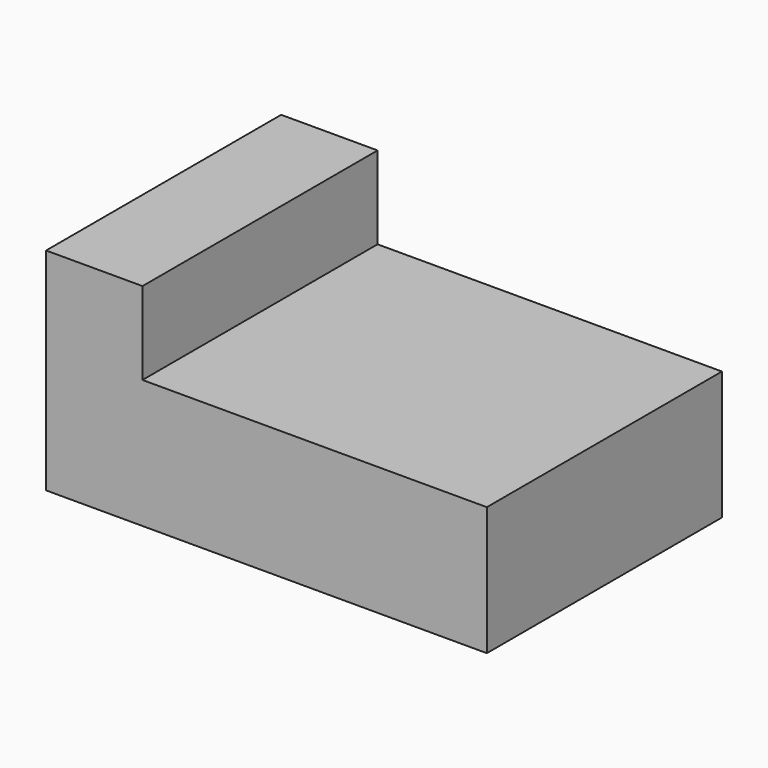
from build123d import *

# Parameters (mm, degrees)
F1_DEPTH = 25.4
F2_DEPTH = 25.4
F3_DEPTH = 50.8


with BuildPart() as f1:
    # F0 (on Front) → F1 (new body)
    with BuildSketch(Plane.XZ):
        Polygon((-126.9120896435, -6.8535663185), (-160.2495896435, -6.8535663185), (-160.2495896435, -79.8785663185), (-7.8495896435, -79.8785663185), (-7.8495896435, -35.4285663185), (-126.9120896435, -35.4285663185), align=None)
    extrude(amount=F1_DEPTH)

    # F2 (add): a face of the model
    f2_faces = [f1.faces().sort_by_distance(p)[0] for p in [
        (-91.3890588215, -25.4, -53.1520252226),
    ]]
    extrude(f2_faces, amount=F2_DEPTH)

    # F3 (add): a face of the model
    f3_faces = [f1.faces().sort_by_distance(p)[0] for p in [
        (-91.3890588215, -50.8, -53.1520252226),
    ]]
    extrude(f3_faces, amount=F3_DEPTH)


solid = f1.part
